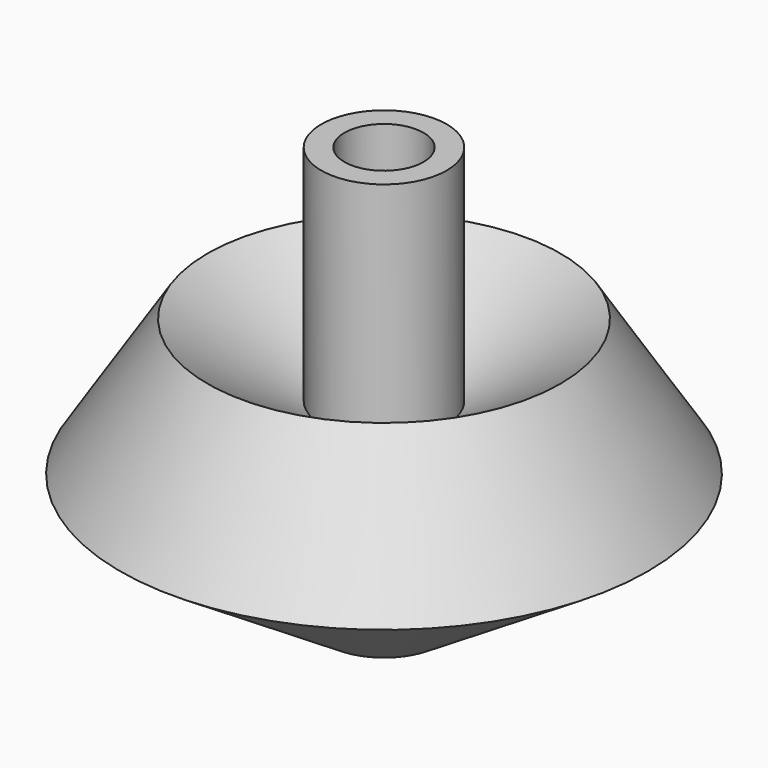
from build123d import *

# Parameters (mm, degrees)
F2_R     = 1.5875
F3_DEPTH = 11.1125
F4_R     = 4.7625
F5_DEPTH = 9.525


with BuildPart() as f1:
    # F0 (on Front) → F1 (revolve)
    with BuildSketch(Plane.XZ):
        Polygon((0, 50.45817), (0, 0), (6.916383, 0), (31.75, 15.876247), (21.236976, 32.320713), (7.545146, 23.567463), (7.545146, 50.45817), align=None)
    revolve(axis=Axis((0, 0, 25.229085), (0, 0, -1)))

    # F2 (on face) → F3 (cut)
    with BuildSketch(Plane(origin=(0, 0, 0), x_dir=(1, 0, 0), z_dir=(0, 0, -1))):
        Circle(F2_R)
    extrude(amount=-F3_DEPTH, mode=Mode.SUBTRACT)

    # F4 (on face) → F5 (cut)
    with BuildSketch(Plane.XY.offset(50.45817)):
        Circle(F4_R)
    extrude(amount=-F5_DEPTH, mode=Mode.SUBTRACT)


solid = f1.part
